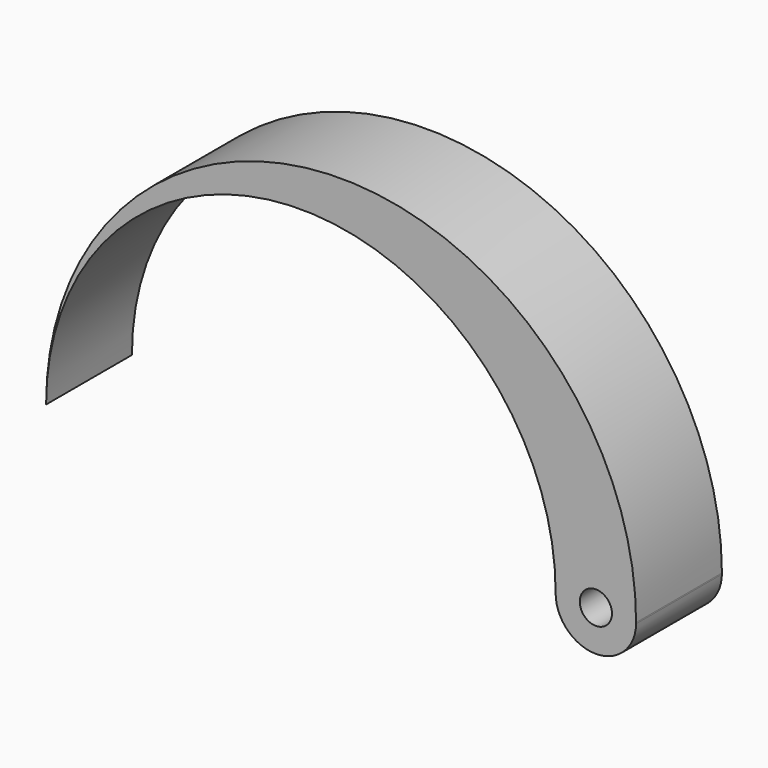
from build123d import *

# Parameters (mm, degrees)
F0_R     = 0.6
F1_DEPTH = 4


with BuildPart() as f1:
    # F0 (on Front) → F1 (new body)
    with BuildSketch(Plane.XZ):
        with BuildLine():
            ThreePointArc((8, 0), (9.478575, -1.518464), (10.999917, -0.042849))
            ThreePointArc((10.999917, -0.042849), (10.999979, -0.021425), (11, 0))
            ThreePointArc((11, 0), (0, 11), (-11, 0))
            ThreePointArc((-11, 0), (-1.5, 9.5), (8, 0))
        make_face()
        with Locations((9.5, 0)):
            Circle(F0_R, mode=Mode.SUBTRACT)
    extrude(amount=F1_DEPTH)


solid = f1.part
